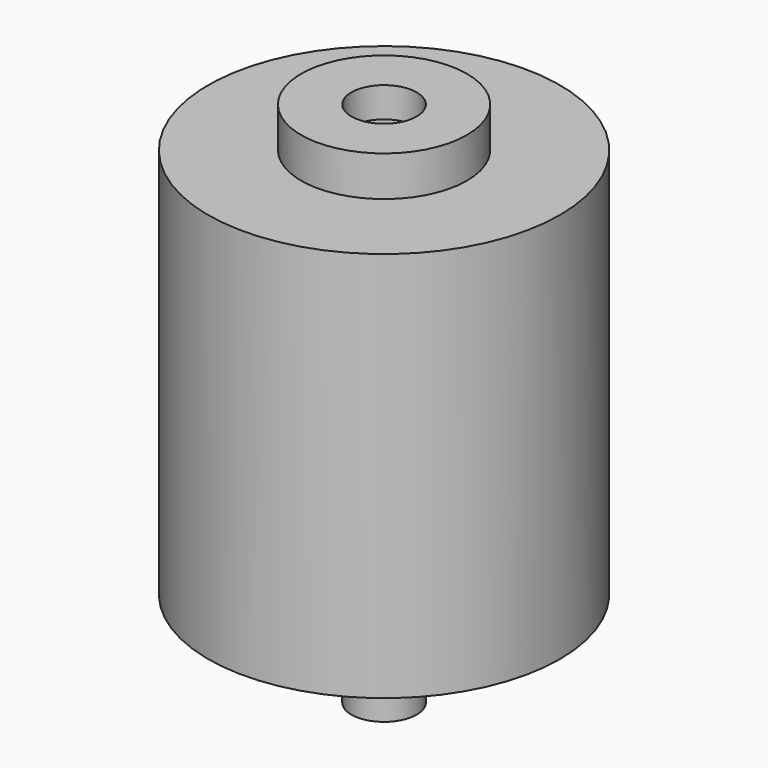
from build123d import *

# Parameters (mm, degrees)
F0_R     = 35
F1_DEPTH = 77.8
F2_R     = 16.5
F3_DEPTH = 8
F4_R     = 6.5
F5_DEPTH = 6
F6_R     = 6.5
F7_DEPTH = 19


with BuildPart() as f1:
    # F0 (on Top) → F1 (new body)
    with BuildSketch(Plane.XY):
        Circle(F0_R)
    extrude(amount=F1_DEPTH)


with BuildPart() as f3:
    # F2 (on face) → F3 (new body)
    with BuildSketch(Plane.XY.offset(77.8)):
        Circle(F2_R)
    extrude(amount=F3_DEPTH)

    # F4 (on face) → F5 (cut)
    with BuildSketch(Plane.XY.offset(85.8)):
        Circle(F4_R)
    extrude(amount=-F5_DEPTH, mode=Mode.SUBTRACT)


with BuildPart() as f7:
    # F6 (on face) → F7 (new body)
    with BuildSketch(Plane(origin=(0, 0, 0), x_dir=(1, 0, 0), z_dir=(0, 0, -1))):
        Circle(F6_R)
    extrude(amount=F7_DEPTH)


solid = Compound([f1.part, f3.part, f7.part])
